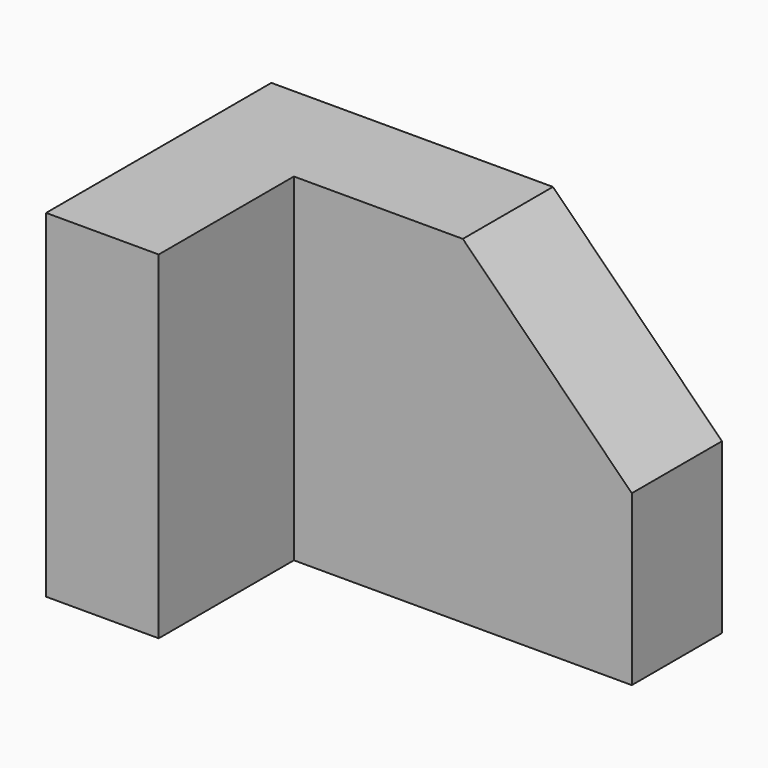
from build123d import *

# Parameters (mm, degrees)
F0_W     = 20
F0_H     = 60
F1_DEPTH = 50
F2_DEPTH = 20


with BuildPart() as f1:
    # F0 (on Front) → F1 (new body)
    with BuildSketch(Plane.XZ):
        with Locations((-30, 0)):
            Rectangle(F0_W, F0_H)
    extrude(amount=F1_DEPTH)

    # F0 (on Front) → F2 (join)
    with BuildSketch(Plane.XZ):
        Polygon((40, 0), (10, 30), (-20, 30), (-20, -30), (40, -30), align=None)
        with Locations((-30, 0)):
            Rectangle(F0_W, F0_H)
    extrude(amount=F2_DEPTH)


solid = f1.part
